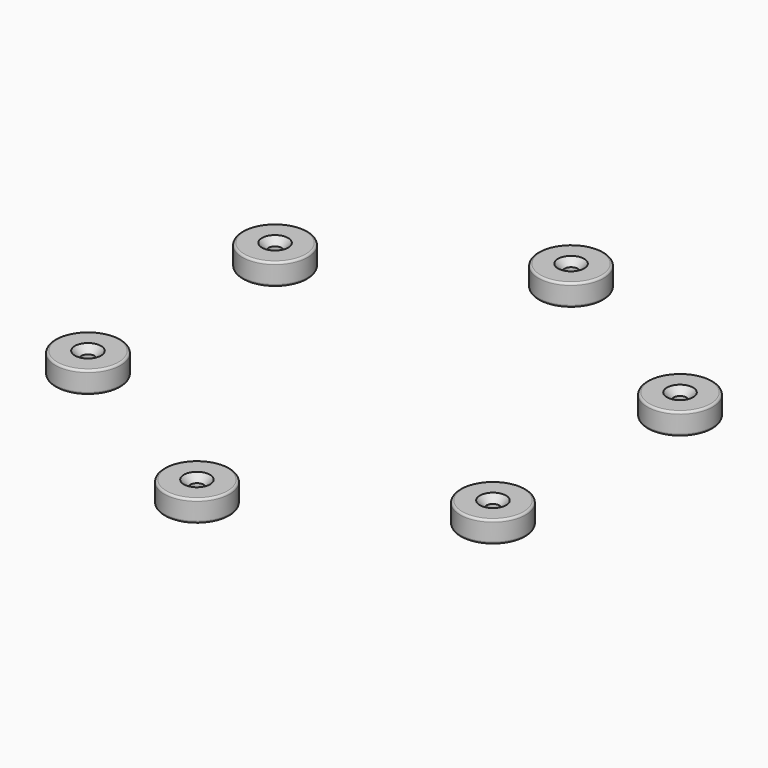
from build123d import *

# Parameters (mm, degrees)
F3_R     = 0.5
F5_COUNT = 6


with BuildPart() as f2:
    # F1 (on Front) → F2 (revolve)
    with BuildSketch(Plane.XZ):
        Polygon((-1.5, 3.5), (-3, 5), (-7.5, 5), (-7.5, 0), (-1.5, 0), align=None)
    revolve(axis=Axis((0, 0, 2.5), (0, 0, -1)))

    # F3
    f3_edges = [f2.edges().sort_by_distance(p)[0] for p in [
        (7.5, 0, 5),
        (7.5, 0, 0),
    ]]
    fillet(f3_edges, radius=F3_R)


with BuildPart() as f5_1:
    # F5: instance of F2
    add(f2.part.rotate(Axis((0, -53.5, 0), (0, 0, 1)), 1 * 360 / F5_COUNT))


with BuildPart() as f5_2:
    # F5: instance of F2
    add(f2.part.rotate(Axis((0, -53.5, 0), (0, 0, 1)), 2 * 360 / F5_COUNT))


with BuildPart() as f5_3:
    # F5: instance of F2
    add(f2.part.rotate(Axis((0, -53.5, 0), (0, 0, 1)), 3 * 360 / F5_COUNT))


with BuildPart() as f5_4:
    # F5: instance of F2
    add(f2.part.rotate(Axis((0, -53.5, 0), (0, 0, 1)), 4 * 360 / F5_COUNT))


with BuildPart() as f5_5:
    # F5: instance of F2
    add(f2.part.rotate(Axis((0, -53.5, 0), (0, 0, 1)), 5 * 360 / F5_COUNT))


solid = Compound([f2.part, f5_1.part, f5_2.part, f5_3.part, f5_4.part, f5_5.part])
